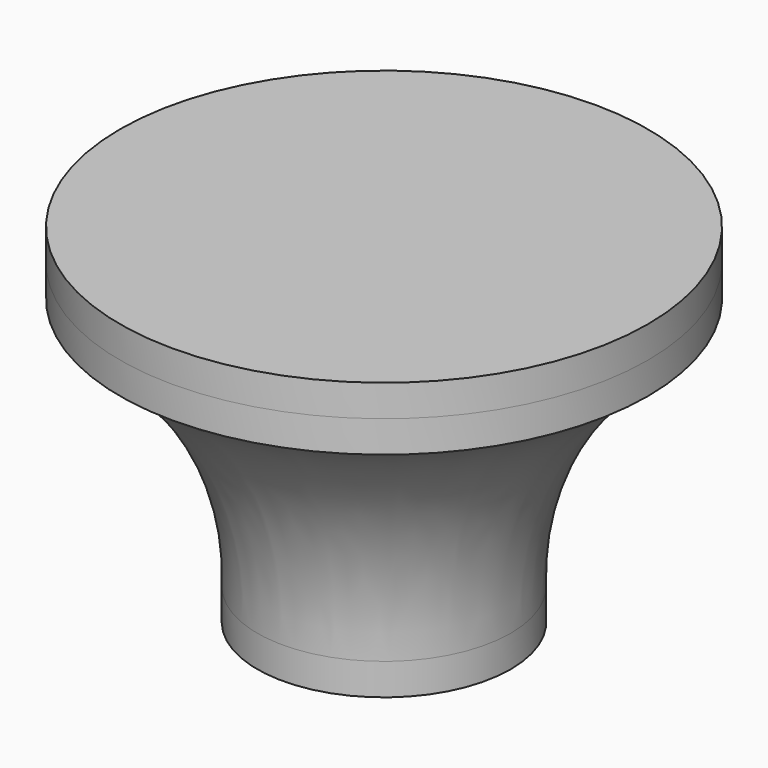
from build123d import *

# Parameters (mm, degrees)
SKETCH001_W  = 10.2
SKETCH001_H  = 1.2
POCKET_DEPTH = 5
PAD_DEPTH    = 0.5


with BuildPart() as body:
    # Sketch → Revolution (revolve)
    with BuildSketch(Plane.XZ):
        Polygon((0, 0), (10, 0), (10, -1), (12, -1), (12, -4), (0, -4), align=None)
    revolve(axis=Axis((0, 0, 0), (0, 0, 1)))

    # Sketch001 (on Face1 of Revolution) → Pocket (cut)
    with BuildSketch(Plane(origin=(0, 0, 0), x_dir=(-1, 0, 0), z_dir=(0, 0, 1))):
        Rectangle(SKETCH001_W, SKETCH001_H)
    extrude(amount=-POCKET_DEPTH, mode=Mode.SUBTRACT)


with BuildPart() as body001:
    # Sketch002 → Revolution001 (revolve)
    with BuildSketch(Plane.XZ):
        with BuildLine():
            Line((10.2, 0), (10.2, -1))
            Line((10.2, -1), (12, -1))
            ThreePointArc((25, 23), (15.21951, 12.776932), (12, -1))
            Line((25, 26), (25, 23))
            Line((22, 26), (25, 26))
            Line((22, 25), (22, 26))
            Line((20, 25), (22, 25))
            ThreePointArc((20, 25), (12.737515, 13.426094), (10.2, 0))
        make_face()
    revolve(axis=Axis((0, 0, 0), (0, 0, 1)))


with BuildPart() as body002:
    # Sketch003 → Revolution002 (revolve)
    with BuildSketch(Plane.XZ):
        Polygon((21.8, 25), (0, 25), (0, 29), (25, 29), (25, 26), (21.8, 26), align=None)
    revolve(axis=Axis((0, 0, 0), (0, 0, 1)))


with BuildPart() as body003:
    # Sketch004 → Pad (new body, symmetric)
    with BuildSketch(Plane.XZ):
        with BuildLine():
            Line((-5, -4), (5, -4))
            Line((5, -4), (5, 15))
            ThreePointArc((5, 15), (0, 20), (-5, 15))
            Line((-5, -4), (-5, 15))
        make_face()
    extrude(amount=PAD_DEPTH, both=True)


solid = Compound([body.part, body001.part, body002.part, body003.part])
